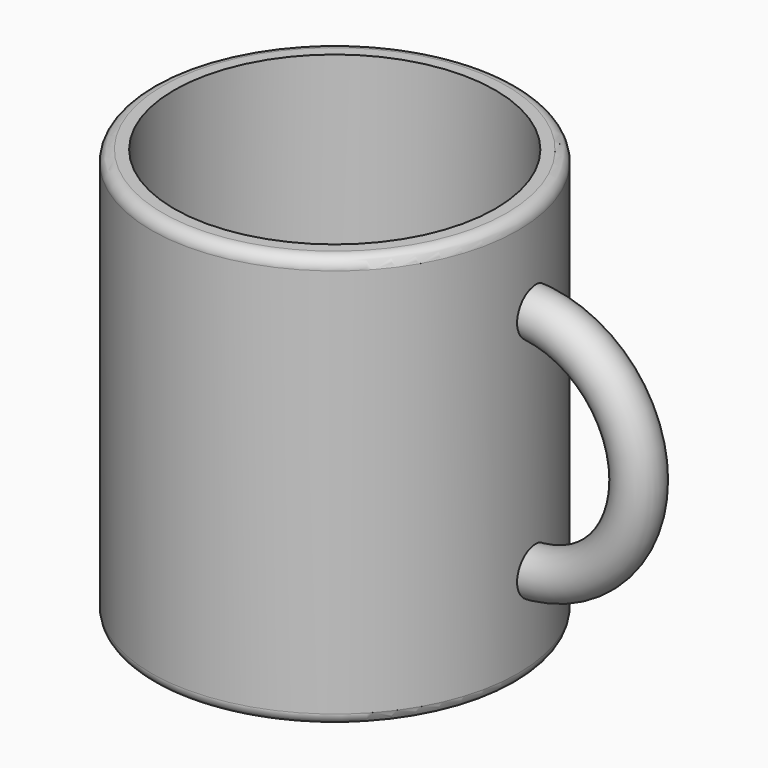
from build123d import *

# Parameters (mm, degrees)
F0_R     = 40
F1_DEPTH = 90
F2_T     = -5
F4_R     = 5
F5_ANGLE = 180
F6_R     = 2.5


with BuildPart() as f1:
    # F0 (on Top) → F1 (new body)
    with BuildSketch(Plane.XY):
        with Locations((0, -4.683932)):
            Circle(F0_R)
    extrude(amount=F1_DEPTH)

    # F2
    f2_openings = [f1.faces().sort_by_distance(p)[0] for p in [
        (0, -4.683932, 90),
    ]]
    offset(amount=F2_T, openings=f2_openings)

    # F6
    f6_edges = [f1.edges().sort_by_distance(p)[0] for p in [
        (-40, -4.683932, 90),
        (-40, -4.683932, 0),
    ]]
    fillet(f6_edges, radius=F6_R)


with BuildPart() as f5:
    # F4 (on offset) → F5 (revolve)
    with BuildSketch(Plane.YZ.offset(37.5)):
        with Locations((0, 70)):
            Circle(F4_R)
    revolve(axis=Axis((37.5, 9.839395, 45), (0, 1, 0)), revolution_arc=F5_ANGLE)


solid = Compound([f1.part, f5.part])
